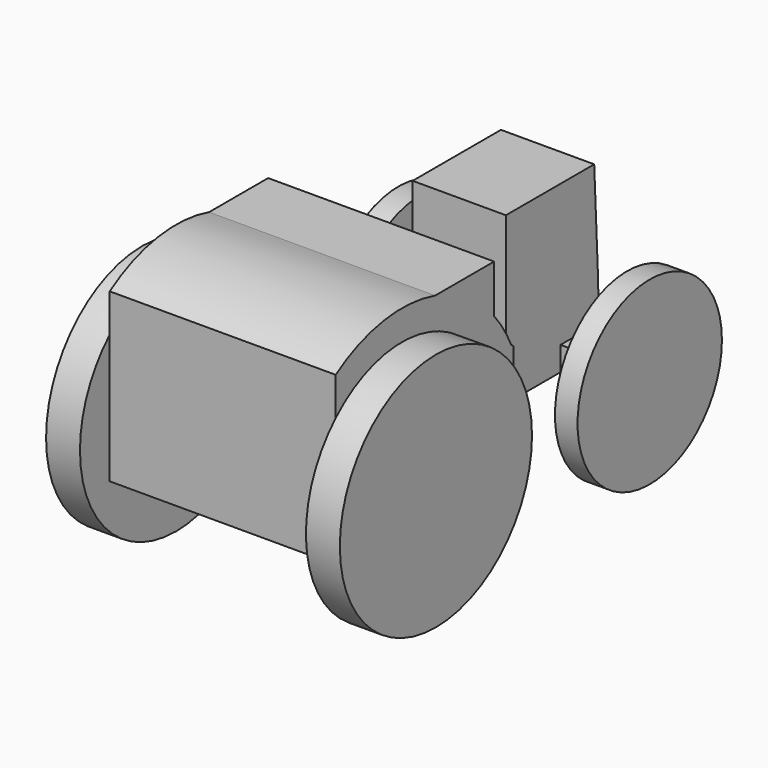
from build123d import *

# Parameters (mm, degrees)
F1_DEPTH  = 50.8
F2_W      = 14.917284
F2_H      = 53.841317
F3_DEPTH  = 32.694496
F4_DEPTH  = 10.528632
F5_R      = 26.996845
F6_DEPTH  = 7.62
F7_R      = 26.996845
F8_DEPTH  = 7.62
F9_W      = 5.714999
F9_H      = 5.414211
F10_DEPTH = 12.7
F11_W     = 5.714999
F11_H     = 5.414211
F12_DEPTH = 12.7
F13_R     = 20.282811
F14_DEPTH = 5.08
F15_R     = 20.282811
F16_DEPTH = 5.08


with BuildPart() as f1:
    # F0 (on Right) → F1 (new body)
    with BuildSketch(Plane.YZ):
        with BuildLine():
            Line((0, 0), (-17.145, 12.933947))
            ThreePointArc((-17.145, 12.933947), (-19.293466, 16.923817), (-21.957632, 20.589493))
            Line((-21.957632, 20.589493), (-21.957632, 31.388942))
            Line((-21.957632, 31.388942), (-38.54655, 31.388942))
            ThreePointArc((-38.54655, 31.388942), (-52.984799, 32.297663), (-66.474475, 27.071053))
            Line((-66.474475, 27.071053), (-66.474475, -10.527632))
            Line((-66.474475, -10.527632), (26.320891, -10.527632))
            Line((26.320891, -10.527632), (25.867894, 4.511842))
            Line((25.867894, 4.511842), (24.816945, 26.770264))
            Line((24.816945, 26.770264), (0, 26.770264))
            Line((0, 26.770264), (0, 0))
        make_face()
    extrude(amount=F1_DEPTH)

    # F2 (on Top) → F3 (cut, through all)
    with BuildSketch(Plane.XY):
        with Locations((7.458642, 10.377236)):
            Rectangle(F2_W, F2_H)
        with Locations((43.341358, 10.377236)):
            Rectangle(F2_W, F2_H)
    extrude(amount=F3_DEPTH, mode=Mode.SUBTRACT)

    # F2 (on Top) → F4 (cut, through all)
    with BuildSketch(Plane.XY):
        with Locations((7.458642, 10.377236)):
            Rectangle(F2_W, F2_H)
        with Locations((43.341358, 10.377236)):
            Rectangle(F2_W, F2_H)
    extrude(amount=-F4_DEPTH, mode=Mode.SUBTRACT)

    # F5 (on face) → F6 (join)
    with BuildSketch(Plane.YZ.offset(50.8)):
        with Locations((-47.833916, -1.018035)):
            Circle(F5_R)
    extrude(amount=F6_DEPTH)

    # F7 (on face) → F8 (join)
    with BuildSketch(Plane(origin=(0, 0, 0), x_dir=(0, -1, 0), z_dir=(-1, 0, 0))):
        with Locations((47.833916, -1.018035)):
            Circle(F7_R)
    extrude(amount=F8_DEPTH)

    # F9 (on face) → F10 (join)
    with BuildSketch(Plane.YZ.offset(35.882716)):
        with Locations((18.197764, -7.820526)):
            Rectangle(F9_W, F9_H)
    extrude(amount=F10_DEPTH)

    # F11 (on face) → F12 (join)
    with BuildSketch(Plane(origin=(14.917284, 0, 0), x_dir=(0, -1, 0), z_dir=(-1, 0, 0))):
        with Locations((-18.197764, -7.820526)):
            Rectangle(F11_W, F11_H)
    extrude(amount=F12_DEPTH)

    # F15 (on face) → F16 (join)
    with BuildSketch(Plane.YZ.offset(48.582716)):
        with Locations((18.197765, -7.820527)):
            Circle(F15_R)
    extrude(amount=F16_DEPTH)


with BuildPart() as f14:
    # F13 (on face) → F14 (new body)
    with BuildSketch(Plane(origin=(2.217284, 0, 0), x_dir=(0, -1, 0), z_dir=(-1, 0, 0))):
        with Locations((-18.197765, -7.820527)):
            Circle(F13_R)
    extrude(amount=F14_DEPTH)


solid = Compound([f1.part, f14.part])
